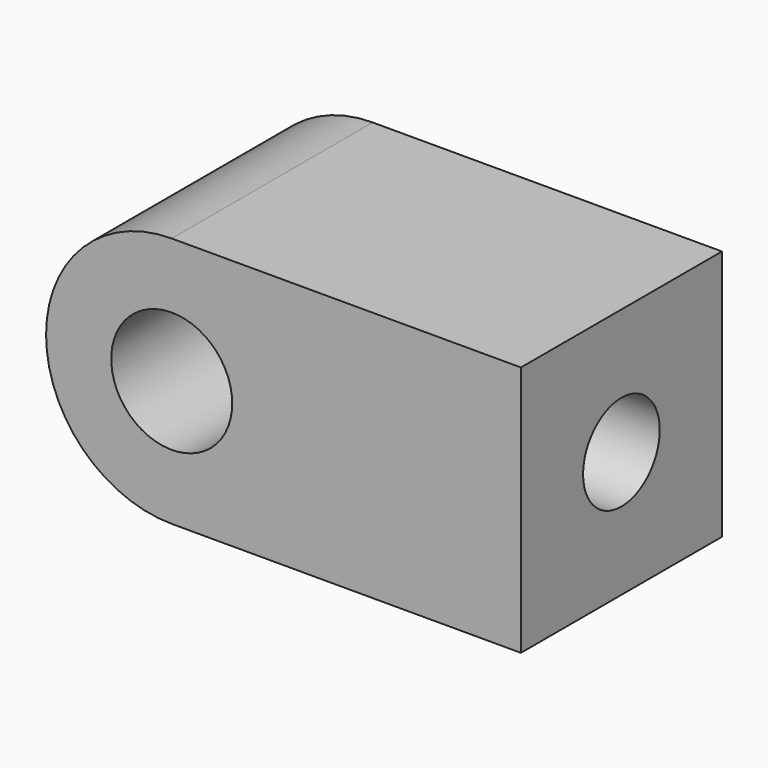
from build123d import *

# Parameters (mm, degrees)
F0_R     = 6.5
F1_DEPTH = 13.5
F3_D     = 10.3
F3_DEPTH = 25.25
F3_TIP   = 3.094432188


with BuildPart() as f1:
    # F0 (on Front) → F1 (new body, symmetric)
    with BuildSketch(Plane.XZ):
        with BuildLine():
            ThreePointArc((-37.525, -13.5), (-27.979058454, -9.545941546), (-24.025, 0))
            ThreePointArc((-24.025, 0), (-27.979058454, 9.545941546), (-37.525, 13.5))
            ThreePointArc((-37.525, 13.5), (-51.025, 0), (-37.525, -13.5))
        make_face()
        with Locations((-37.525, 0)):
            Circle(F0_R, mode=Mode.SUBTRACT)
        with BuildLine():
            ThreePointArc((-37.525, 13.5), (-27.979058454, 9.545941546), (-24.025, 0))
            ThreePointArc((-24.025, 0), (-27.979058454, -9.545941546), (-37.525, -13.5))
            Line((-37.525, -13.5), (0, -13.5))
            Line((0, -13.5), (0, 13.5))
            Line((0, 13.5), (-37.525, 13.5))
        make_face()
    extrude(amount=F1_DEPTH, both=True)

    # F3
    with Locations(Plane.YZ):
        with Locations((0, 0)):
            Hole(F3_D / 2, depth=F3_DEPTH)
            with Locations((0, 0, -(F3_DEPTH + F3_TIP / 2))):  # 118° drill point
                Cone(0, F3_D / 2, F3_TIP, mode=Mode.SUBTRACT)


solid = f1.part
